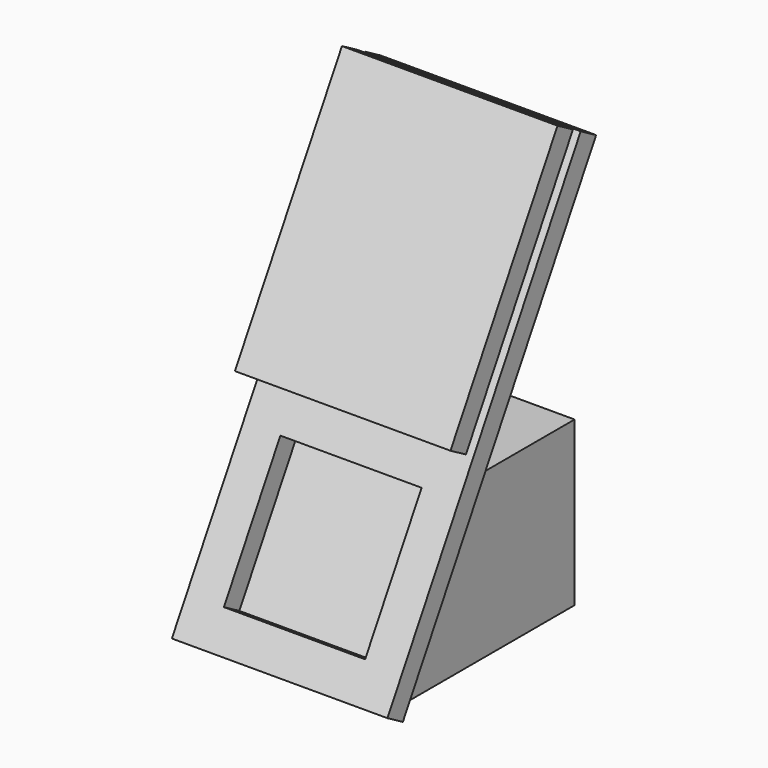
from build123d import *

# Parameters (mm, degrees)
F1_DEPTH = 152.4
F2_W     = 120.65
F2_H     = 120.65
F3_DEPTH = 19.05
F5_W     = 184.15
F5_H     = 228.6
F6_DEPTH = 19.05


with BuildPart() as f1:
    # F0 (on Right) → F1 (new body)
    with BuildSketch(Plane.YZ):
        Polygon((80.6558326058, 139.7), (0, 0), (203.2, 0), (203.2, 139.7), align=None)
    extrude(amount=F1_DEPTH)

    # F2 (on face) → F3 (join)
    with BuildSketch(Plane(origin=(0, 0, 0), x_dir=(1, 0, 0), z_dir=(0, -0.8660254038, 0.5))):
        Polygon((-15.875, 0), (76.2, 0), (168.275, 0), (168.275, 412.75), (76.2, 412.75), (-15.875, 412.75), align=None)
        with Locations((76.2, 92.075)):
            Rectangle(F2_W, F2_H, mode=Mode.SUBTRACT)
    extrude(amount=F3_DEPTH)


with BuildPart() as f6:
    # F5 (on offset) → F6 (new body)
    with BuildSketch(Plane(origin=(0, -24.7466759131, 14.2875), x_dir=(1, 0, 0), z_dir=(0, -0.8660254038, 0.5))):
        with Locations((76.2, 298.45)):
            Rectangle(F5_W, F5_H)
    extrude(amount=F6_DEPTH)


solid = Compound([f1.part, f6.part])
